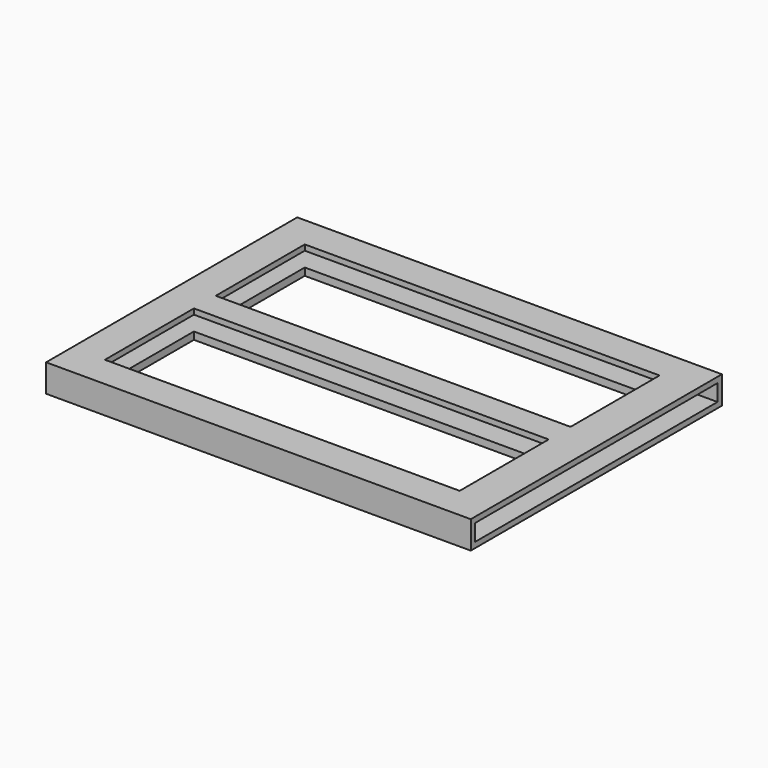
from build123d import *

# Parameters (mm, degrees)
F0_W     = 115
F0_H     = 85
F1_DEPTH = 2
F2_W     = 115
F2_H     = 85
F2_W_2   = 112
F2_H_2   = 82
F3_DEPTH = 4
F4_W     = 115
F4_H     = 85
F5_DEPTH = 1.5
F6_W     = 82
F6_H     = 4.5
F7_DEPTH = 7.1
F8_W     = 96.06551
F8_H     = 30.124249
F8_H_2   = 30.12425
F9_DEPTH = 20


with BuildPart() as f1:
    # F0 (on Top) → F1 (new body)
    with BuildSketch(Plane.XY):
        with Locations((17.203308, 3.536641)):
            Rectangle(F0_W, F0_H)
    extrude(amount=F1_DEPTH)

    # F2 (on face) → F3 (join)
    with BuildSketch(Plane.XY.offset(2)):
        with Locations((17.203308, 3.536641)):
            Rectangle(F2_W, F2_H)
        with Locations((17.203308, 3.536641)):
            Rectangle(F2_W_2, F2_H_2, mode=Mode.SUBTRACT)
    extrude(amount=F3_DEPTH)

    # F4 (on face) → F5 (join)
    with BuildSketch(Plane.XY.offset(6)):
        with Locations((17.203308, 3.536641)):
            Rectangle(F4_W, F4_H)
    extrude(amount=F5_DEPTH)

    # F6 (on face) → F7 (cut)
    with BuildSketch(Plane.YZ.offset(74.703308)):
        with Locations((3.536641, 3.75)):
            Rectangle(F6_W, F6_H)
    extrude(amount=-F7_DEPTH, mode=Mode.SUBTRACT)

    # F8 (on face) → F9 (cut)
    with BuildSketch(Plane.XY.offset(7.5)):
        with Locations((16.722513, 22.296688)):
            Rectangle(F8_W, F8_H)
        with Locations((16.722513, -15.223406)):
            Rectangle(F8_W, F8_H_2)
    extrude(amount=-F9_DEPTH, mode=Mode.SUBTRACT)


solid = f1.part
